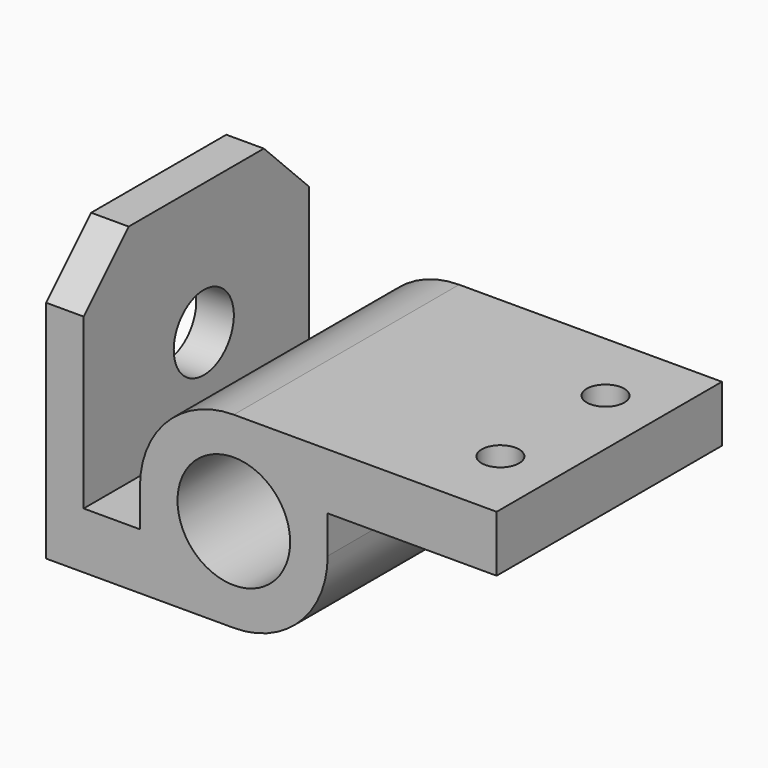
from build123d import *

# Parameters (mm, degrees)
F0_R     = 15
F1_DEPTH = 75
F2_R     = 10
F3_DEPTH = 10
F4_R     = 5
F5_DEPTH = 15


with BuildPart() as f1:
    # F0 (on Front) → F1 (new body)
    with BuildSketch(Plane.XZ):
        with BuildLine():
            Line((-88.529155, 50), (-88.529155, -25))
            Line((-88.529155, -25), (-38.529155, -25))
            ThreePointArc((-38.529155, -25), (-20.851485, -17.67767), (-13.529155, 0))
            Line((-13.529155, 0), (-13.529155, 10))
            Line((-13.529155, 10), (31.470845, 10))
            Line((31.470845, 10), (31.470845, 25))
            Line((31.470845, 25), (-38.529155, 25))
            ThreePointArc((-38.529155, 25), (-56.206824, 17.67767), (-63.529155, 0))
            Line((-63.529155, 0), (-63.529155, -10))
            Line((-63.529155, -10), (-78.529155, -10))
            Line((-78.529155, -10), (-78.529155, 50))
            Line((-78.529155, 50), (-88.529155, 50))
        make_face()
        with Locations((-38.529155, 0)):
            Circle(F0_R, mode=Mode.SUBTRACT)
    extrude(amount=F1_DEPTH)

    # F2 (on face) → F3 (cut)
    with BuildSketch(Plane(origin=(-88.529155, 0, 0), x_dir=(0, -1, 0), z_dir=(-1, 0, 0))):
        Polygon((0, 35), (15, 50), (0, 50), align=None)
        Polygon((75, 50), (60, 50), (75, 35), align=None)
        with Locations((35, 15)):
            Circle(F2_R)
    extrude(amount=-F3_DEPTH, mode=Mode.SUBTRACT)

    # F4 (on face) → F5 (cut)
    with BuildSketch(Plane.XY.offset(25)):
        with Locations((16.470845, -20)):
            Circle(F4_R)
        with Locations((16.470845, -55)):
            Circle(F4_R)
    extrude(amount=-F5_DEPTH, mode=Mode.SUBTRACT)


solid = f1.part
